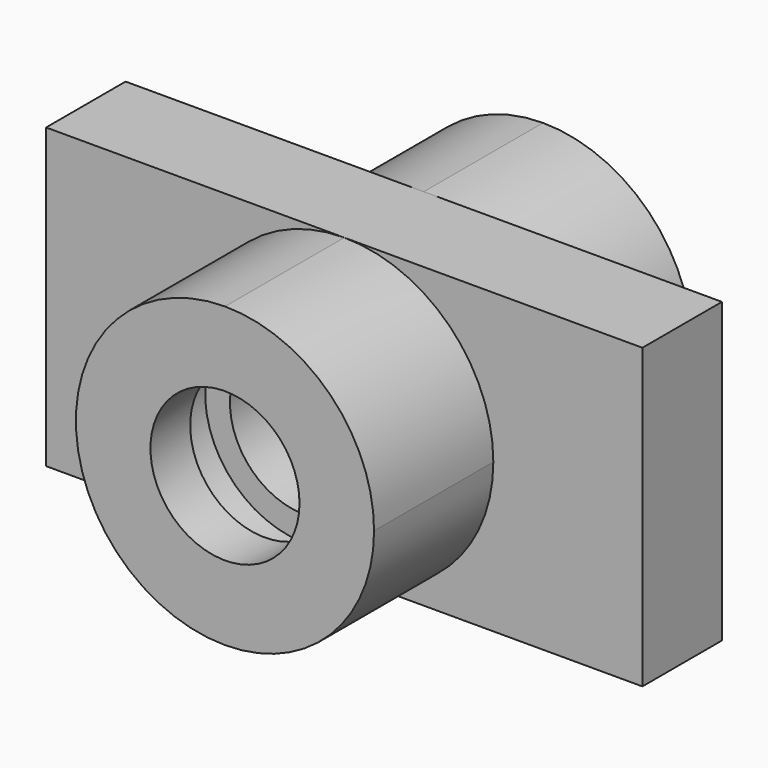
from build123d import *

# Parameters (mm, degrees)
F0_R     = 9.525
F1_DEPTH = 25.4
F2_R     = 9.525
F3_DEPTH = 6.35
F4_R     = 12.7
F5_DEPTH = 6.35
F6_R     = 9.525
F7_DEPTH = 76.2
F8_DEPTH = 6.35


with BuildPart() as f1:
    # F0 (on Front) → F1 (new body, symmetric)
    with BuildSketch(Plane.XZ):
        with BuildLine():
            ThreePointArc((38.1, 38.1), (19.05, 19.05), (38.1, 0))
            ThreePointArc((38.1, 0), (51.570384, 5.579616), (57.15, 19.05))
            ThreePointArc((57.15, 19.05), (51.570384, 32.520384), (38.1, 38.1))
        make_face()
        with Locations((38.1, 19.05)):
            Circle(F0_R, mode=Mode.SUBTRACT)
        with Locations((38.1, 19.05)):
            Circle(F0_R)
    extrude(amount=F1_DEPTH, both=True)

    # F2 (on face) → F3 (cut)
    with BuildSketch(Plane.XZ.offset(12.7)):
        with Locations((38.1, 19.05)):
            Circle(F2_R)
    extrude(amount=-F3_DEPTH, mode=Mode.SUBTRACT)

    # F4 (on face) → F5 (cut)
    with BuildSketch(Plane.XZ.offset(19.05)):
        with Locations((38.1, 19.05)):
            Circle(F4_R)
    extrude(amount=-F5_DEPTH, mode=Mode.SUBTRACT)

    # F6 (on face) → F7 (cut)
    with BuildSketch(Plane.XZ.offset(25.4)):
        with Locations((38.1, 19.05)):
            Circle(F6_R)
    extrude(amount=-F7_DEPTH, mode=Mode.SUBTRACT)

    # F0 (on Front) → F8 (join, symmetric)
    with BuildSketch(Plane.XZ):
        with BuildLine():
            Line((0, 38.1), (0, 0))
            Line((0, 0), (38.1, 0))
            ThreePointArc((38.1, 0), (19.05, 19.05), (38.1, 38.1))
            Line((38.1, 38.1), (0, 38.1))
        make_face()
        with BuildLine():
            ThreePointArc((57.15, 19.05), (51.570384, 5.579616), (38.1, 0))
            Line((38.1, 0), (76.2, 0))
            Line((76.2, 0), (76.2, 38.1))
            Line((76.2, 38.1), (38.1, 38.1))
            ThreePointArc((38.1, 38.1), (51.570384, 32.520384), (57.15, 19.05))
        make_face()
    extrude(amount=F8_DEPTH, both=True)


solid = f1.part
